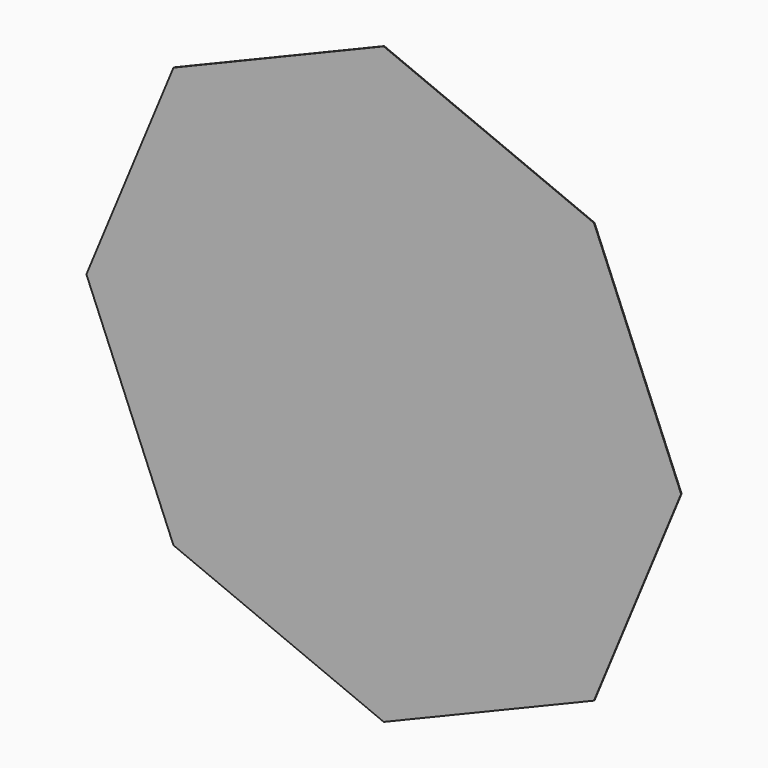
from build123d import *

# Parameters (mm, degrees)
PAD_DEPTH = 1


with BuildPart() as part:
    # Sketch → Pad (new body)
    with BuildSketch(Plane.XZ):
        Polygon((450, 0), (318.198052, 318.198052), (0, 450), (-318.198052, 318.198052), (-450, 0), (-318.198052, -318.198052), (0, -450), (318.198052, -318.198052), align=None)
    extrude(amount=PAD_DEPTH)


solid = part.part
